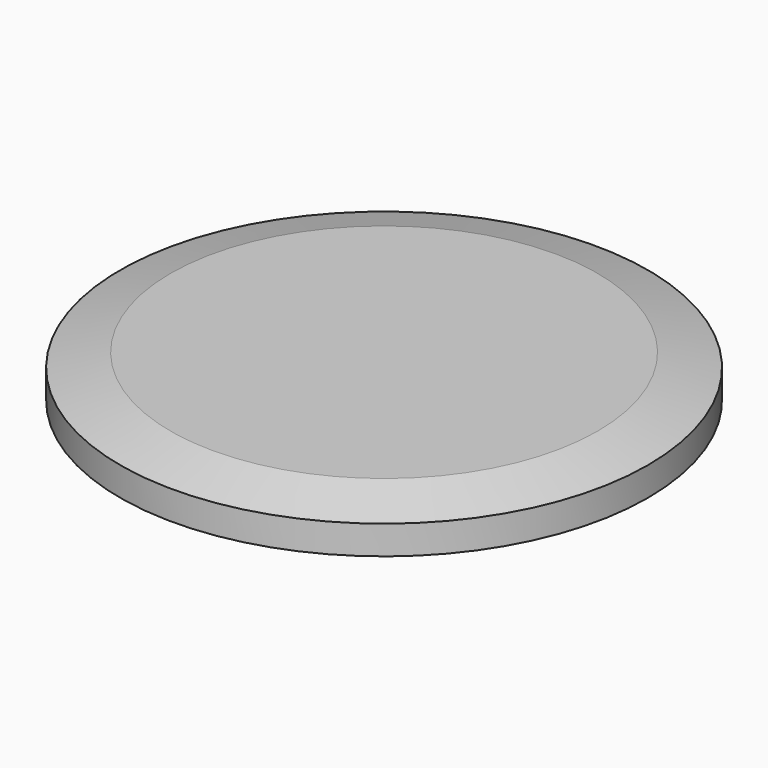
from build123d import *

# Parameters (mm, degrees)
CYLINDER002_R     = 20.6
CYLINDER002_DEPTH = 2.5
CYLINDER_R        = 27.5
CYLINDER_DEPTH    = 3


with BuildPart() as cylinder002:
    # Cylinder002 → Cylinder002 (new body)
    with BuildSketch(Plane.XY):
        Circle(CYLINDER002_R)
    extrude(amount=CYLINDER002_DEPTH)


with BuildPart() as cone:
    # Cone → Cone (revolve)
    with BuildSketch(Plane(origin=(0, 0, 3), x_dir=(1, 0, 0), z_dir=(0, -1, 0))):
        Polygon((0, 0), (27.5, 0), (22.25, 1.406733), (0, 1.406733), align=None)
    revolve(axis=Axis((0, 0, 3), (0, 0, 1)))


with BuildPart() as obj1:
    # Cylinder → Cylinder (new body)
    with BuildSketch(Plane.XY):
        Circle(CYLINDER_R)
    extrude(amount=CYLINDER_DEPTH)

    # Fusion: union Cone
    add(cone.part)

    # Cut: cut Cylinder002
    add(cylinder002.part, mode=Mode.SUBTRACT)


solid = obj1.part
